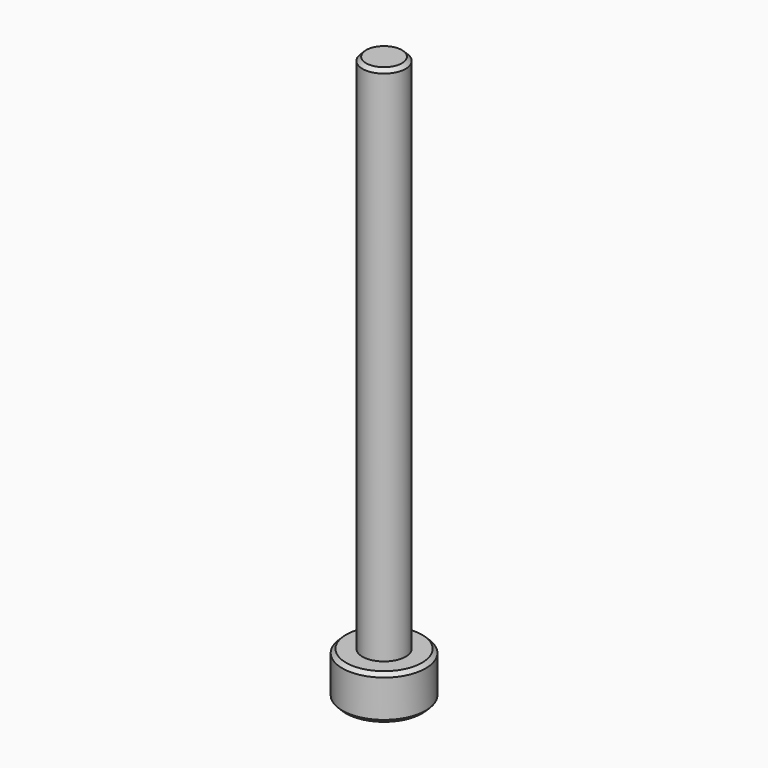
from build123d import *

# Parameters (mm, degrees)
SKETCH_R     = 2.8
PAD_DEPTH    = 3
SKETCH001_R  = 1.45
PAD001_DEPTH = 35
POCKET_DEPTH = 2
CHAMFER_SIZE = 0.25


with BuildPart() as part:
    # Sketch → Pad (new body)
    with BuildSketch(Plane.XY):
        Circle(SKETCH_R)
    extrude(amount=PAD_DEPTH)

    # Sketch001 (on Face3 of Pad) → Pad001 (join)
    with BuildSketch(Plane.XY.offset(3)):
        Circle(SKETCH001_R)
    extrude(amount=PAD001_DEPTH)

    # Sketch002 (on Face2 of Pad001) → Pocket (cut)
    with BuildSketch(Plane(origin=(0, 0, 0), x_dir=(1, 0, 0), z_dir=(0, 0, -1))):
        Polygon((1.259542, 0.814588), (-0.075682, 1.49809), (-1.335225, 0.683502), (-1.259542, -0.814588), (0.075682, -1.49809), (1.335225, -0.683502), align=None)
    extrude(amount=-POCKET_DEPTH, mode=Mode.SUBTRACT)

    # Chamfer
    chamfer_edges = [part.edges().sort_by_distance(p)[0] for p in [
        (-2.8, 0, 3),
        (-2.8, 0, 0),
        (1.297384, -0.065543, 0),
        (0.705454, 1.090796, 0),
        (-0.59193, 1.156339, 0),
        (-1.297384, 0.065543, 0),
        (-0.705454, -1.090796, 0),
        (0.59193, -1.156339, 0),
        (-1.45, 0, 38),
    ]]
    chamfer(chamfer_edges, length=CHAMFER_SIZE)


solid = part.part
